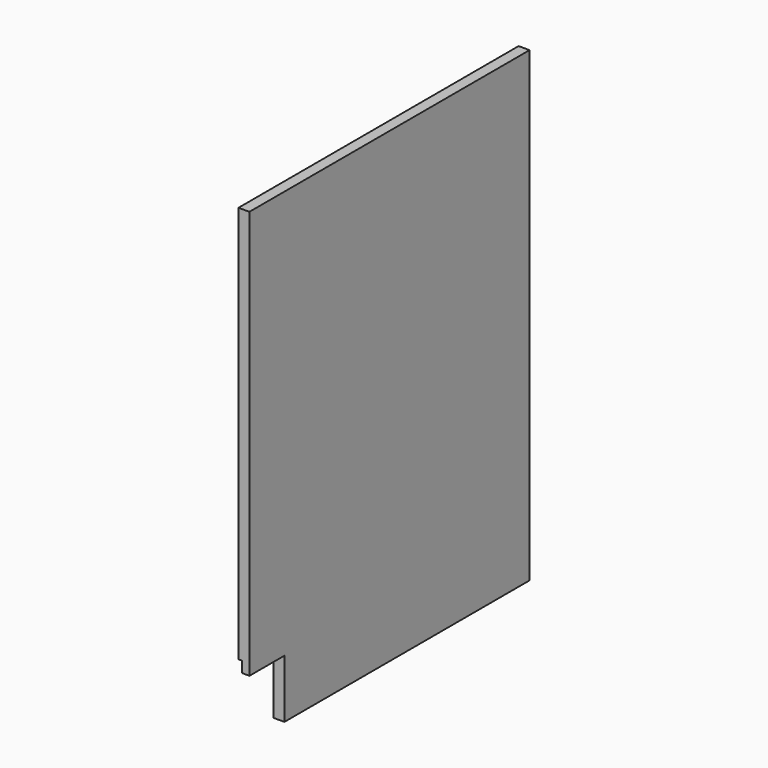
from build123d import *

# Parameters (mm, degrees)
F1_DEPTH = 19.05
F3_DEPTH = 6.35


with BuildPart() as f1:
    # F0 (on Right) → F1 (new body)
    with BuildSketch(Plane.YZ):
        Polygon((0, 101.6), (0, 0), (533.4, 0), (533.4, 812.8), (-76.2, 812.8), (-76.2, 101.6), align=None)
    extrude(amount=F1_DEPTH)

    # F2 (on face) → F3 (cut)
    with BuildSketch(Plane(origin=(0, 0, 0), x_dir=(0, -1, 0), z_dir=(-1, 0, 0))):
        Polygon((0, 101.6), (76.2, 101.6), (76.2, 120.65), (-533.4, 120.65), (-533.4, 101.6), align=None)
    extrude(amount=-F3_DEPTH, mode=Mode.SUBTRACT)


solid = f1.part
